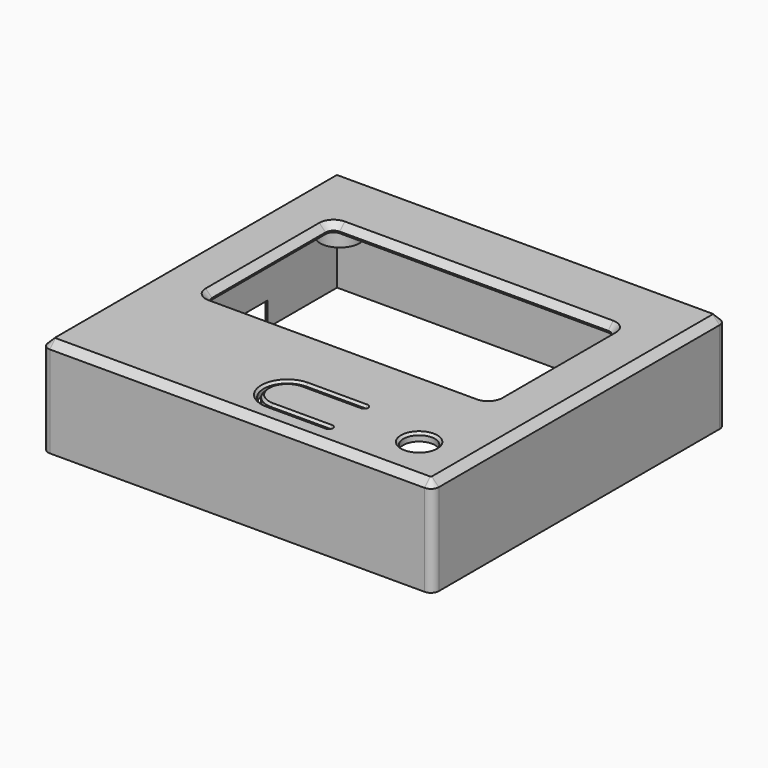
from build123d import *

# Parameters (mm, degrees)
SKETCH001018_W   = 99
SKETCH001018_H   = 93
PAD013_DEPTH     = 2
SKETCH001019_R   = 4
POCKET004_DEPTH  = 2.001
SKETCH001020_W   = 99
SKETCH001020_H   = 93
SKETCH001020_W_2 = 95
SKETCH001020_H_2 = 89
PAD014_DEPTH     = 23
PAD015_DEPTH     = 8.9
SKETCH001022_R   = 1.3
POCKET005_DEPTH  = 8.9
FILLET004_R      = 2
CHAMFER001_SIZE  = 1.8
CHAMFER002_SIZE  = 1.6
SKETCH001023_R   = 4
PAD016_DEPTH     = 10
CHAMFER003_SIZE  = 1
SKETCH001024_W   = 20
SKETCH001024_H   = 20
POCKET006_DEPTH  = 1.2
SKETCH001025_W   = 4
SKETCH001025_H   = 28.5
POCKET007_DEPTH  = 6.1
CHAMFER004_SIZE  = 1.8
CHAMFER005_SIZE  = 0.6
CHAMFER006_SIZE  = 0.6


with BuildPart() as part:
    # Sketch001018 → Pad013 (new body)
    with BuildSketch(Plane.XY.offset(15.2)):
        Rectangle(SKETCH001018_W, SKETCH001018_H)
    extrude(amount=PAD013_DEPTH)

    # Sketch001019 → Pocket004 (cut, through all)
    with BuildSketch(Plane.XY.offset(17.2)):
        with Locations((36.5, -34.5)):
            Circle(SKETCH001019_R)
        with BuildLine():
            Line((-34, 28.5), (34, 28.5))
            ThreePointArc((36, 26.5), (35.414214, 27.914214), (34, 28.5))
            Line((36, 26.5), (36, -9.5))
            ThreePointArc((34, -11.5), (35.414214, -10.914214), (36, -9.5))
            Line((34, -11.5), (-34, -11.5))
            ThreePointArc((-36, -9.5), (-35.414214, -10.914214), (-34, -11.5))
            Line((-36, -9.5), (-36, 26.5))
            ThreePointArc((-34, 28.5), (-35.414214, 27.914214), (-36, 26.5))
        make_face()
        with BuildLine():
            ThreePointArc((3.5, -29.8), (-1.7, -35), (3.5, -40.2))
            Line((3.5, -40.2), (18.5, -40.2))
            ThreePointArc((18.5, -41), (18.9, -40.6), (18.5, -40.2))
            Line((3.500001, -41), (18.5, -41))
            ThreePointArc((3.5, -29), (-2.5, -35), (3.500001, -41))
            Line((3.5, -29), (18.5, -29))
            ThreePointArc((18.499999, -29.8), (18.9, -29.4), (18.5, -29))
            Line((3.5, -29.8), (18.499999, -29.8))
        make_face()
    extrude(amount=-POCKET004_DEPTH, mode=Mode.SUBTRACT)

    # Sketch001020 → Pad014 (new body)
    with BuildSketch(Plane(origin=(0, 0, 15.2), x_dir=(1, 0, 0), z_dir=(0, 0, -1))):
        Rectangle(SKETCH001020_W, SKETCH001020_H)
        Rectangle(SKETCH001020_W_2, SKETCH001020_H_2, mode=Mode.SUBTRACT)
    extrude(amount=PAD014_DEPTH)

    # Sketch001021 → Pad015 (new body)
    with BuildSketch(Plane(origin=(0, 0, 15.2), x_dir=(1, 0, 0), z_dir=(0, 0, -1))):
        with BuildLine():
            ThreePointArc((-40.429286, -44.5), (-40.464466, -37.464466), (-47.5, -37.429286))
            Line((-47.5, -37.429286), (-47.5, -44.5))
            Line((-47.5, -44.5), (-40.429286, -44.5))
        make_face()
        with BuildLine():
            ThreePointArc((-47.5, 20.429286), (-39, 24), (-47.5, 27.570714))
            Line((-47.5, 27.570714), (-47.5, 20.429286))
        make_face()
        with BuildLine():
            ThreePointArc((47.5, 27.570714), (39, 24), (47.5, 20.429286))
            Line((47.5, 27.570714), (47.5, 20.429286))
        make_face()
        with BuildLine():
            ThreePointArc((47.5, -37.429286), (40.464466, -37.464466), (40.429286, -44.5))
            Line((47.5, -44.5), (40.429286, -44.5))
            Line((47.5, -37.429286), (47.5, -44.5))
        make_face()
    extrude(amount=PAD015_DEPTH)

    # Sketch001022 → Pocket005 (cut)
    with BuildSketch(Plane(origin=(0, 0, 6.3), x_dir=(1, 0, 0), z_dir=(0, 0, -1))):
        with Locations((-44, 24)):
            Circle(SKETCH001022_R)
        with Locations((44, 24)):
            Circle(SKETCH001022_R)
        with Locations((-44, -41)):
            Circle(SKETCH001022_R)
        with Locations((44, -41)):
            Circle(SKETCH001022_R)
    extrude(amount=-POCKET005_DEPTH, mode=Mode.SUBTRACT)

    # Fillet004
    fillet004_edges = [part.edges().sort_by_distance(p)[0] for p in [
        (-49.5, -46.5, 3.7),
        (-49.5, -46.5, 16.2),
        (-49.5, 46.5, 16.2),
        (-49.5, 46.5, 3.7),
        (49.5, 46.5, 16.2),
        (49.5, 46.5, 3.7),
        (49.5, -46.5, 16.2),
        (49.5, -46.5, 3.7),
    ]]
    fillet(fillet004_edges, radius=FILLET004_R)

    # Chamfer001
    chamfer001_edges = [part.edges().sort_by_distance(p)[0] for p in [
        (0, -46.5, 17.2),
        (-48.914214, -45.914214, 17.2),
        (-49.5, 0, 17.2),
        (48.914214, -45.914214, 17.2),
        (49.5, 0, 17.2),
        (48.914214, 45.914214, 17.2),
        (0, 46.5, 17.2),
        (-48.914214, 45.914214, 17.2),
    ]]
    chamfer(chamfer001_edges, length=CHAMFER001_SIZE)

    # Chamfer002
    chamfer002_edges = [part.edges().sort_by_distance(p)[0] for p in [
        (0, 28.5, 17.2),
        (35.414214, 27.914214, 17.2),
        (36, 8.5, 17.2),
        (35.414214, -10.914214, 17.2),
        (-35.414214, 27.914214, 17.2),
        (-36, 8.5, 17.2),
        (-35.414214, -10.914214, 17.2),
        (0, -11.5, 17.2),
    ]]
    chamfer(chamfer002_edges, length=CHAMFER002_SIZE)

    # Sketch001023 → Pad016 (new body)
    with BuildSketch(Plane(origin=(0, 0, 15.2), x_dir=(1, 0, 0), z_dir=(0, 0, -1))):
        with Locations((3.5, 35)):
            Circle(SKETCH001023_R)
    extrude(amount=PAD016_DEPTH)

    # Chamfer003
    chamfer003_edges = [part.edges().sort_by_distance(p)[0] for p in [
        (-0.5, -35, 15.2),
    ]]
    chamfer(chamfer003_edges, length=CHAMFER003_SIZE)

    # Sketch001024 → Pocket006 (cut)
    with BuildSketch(Plane(origin=(0, 0, 15.2), x_dir=(1, 0, 0), z_dir=(0, 0, -1))):
        with Locations((21.5, 34.5)):
            Rectangle(SKETCH001024_W, SKETCH001024_H)
    extrude(amount=-POCKET006_DEPTH, mode=Mode.SUBTRACT)

    # Sketch001025 → Pocket007 (cut)
    with BuildSketch(Plane(origin=(0, 0, -7.8), x_dir=(1, 0, 0), z_dir=(0, 0, -1))):
        with Locations((-48.5, -8.25)):
            Rectangle(SKETCH001025_W, SKETCH001025_H)
    extrude(amount=-POCKET007_DEPTH, mode=Mode.SUBTRACT)

    # Chamfer004
    chamfer004_edges = [part.edges().sort_by_distance(p)[0] for p in [
        (-49.5, -6, -4.75),
        (-49.5, 8.25, -1.7),
        (-49.5, 22.5, -4.75),
    ]]
    chamfer(chamfer004_edges, length=CHAMFER004_SIZE)

    # Chamfer005
    chamfer005_edges = [part.edges().sort_by_distance(p)[0] for p in [
        (11, -29.8, 17.2),
        (18.9, -29.4, 17.2),
        (11, -29, 17.2),
        (-2.5, -35, 17.2),
        (-1.7, -35, 17.2),
        (11, -40.2, 17.2),
        (11, -41, 17.2),
        (18.9, -40.6, 17.2),
    ]]
    chamfer(chamfer005_edges, length=CHAMFER005_SIZE)

    # Chamfer006
    chamfer006_edges = [part.edges().sort_by_distance(p)[0] for p in [
        (32.5, -34.5, 17.2),
    ]]
    chamfer(chamfer006_edges, length=CHAMFER006_SIZE)


solid = part.part
